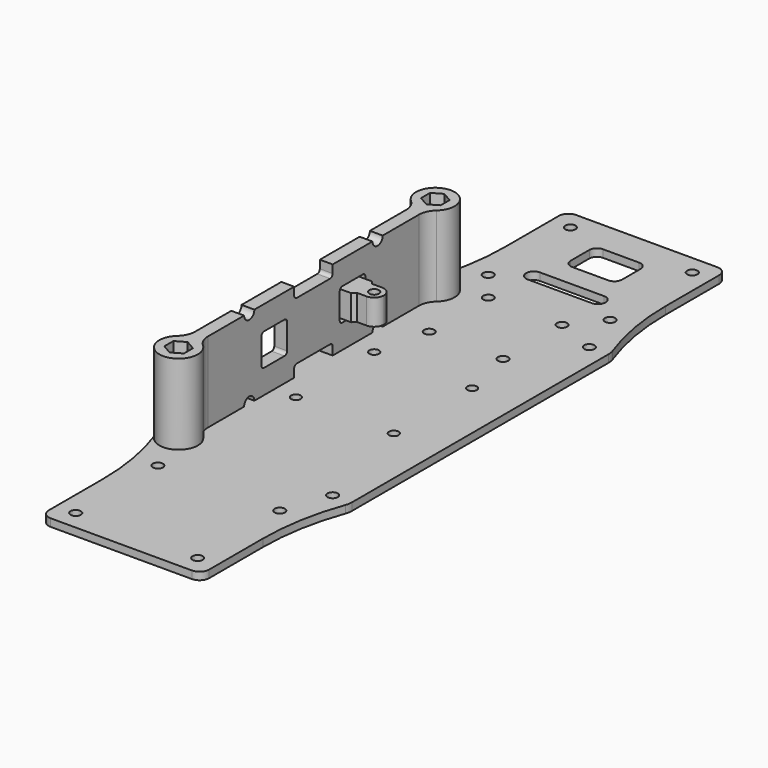
from build123d import *

# Parameters (mm, degrees)
F1_DEPTH  = 2.3622
F2_R      = 1.6002
F2_R_2    = 1.5
F3_DEPTH  = 2.3632
F5_DEPTH  = 25
F7_DEPTH  = 25
F9_DEPTH  = 4
F12_DEPTH = 4
F13_R     = 1.5
F14_DEPTH = 8
F15_R     = 1.5875
F16_DEPTH = 2.3622


with BuildPart() as f1:
    # F0 (on Top) → F1 (new body)
    with BuildSketch(Plane.XY):
        with BuildLine():
            Line((22, 102.348451), (0, 102.348451))
            Line((0, 102.348451), (-22, 102.348451))
            ThreePointArc((-22, 102.348451), (-24.12132, 101.469772), (-25, 99.348451))
            Line((-25, 99.348451), (-25, 78.348451))
            ThreePointArc((-25, 78.348451), (-26.16837, 64.997616), (-29.637959, 52.052662))
            ThreePointArc((-29.637959, 52.052662), (-29.908796, 51.042173), (-30, 50))
            Line((-30, 50), (-30, -50))
            ThreePointArc((-30, -50), (-29.908796, -51.042173), (-29.637959, -52.052662))
            ThreePointArc((-29.637959, -52.052662), (-26.16837, -64.997616), (-25, -78.348451))
            Line((-25, -78.348451), (-25, -99.348451))
            ThreePointArc((-25, -99.348451), (-24.12132, -101.469772), (-22, -102.348451))
            Line((-22, -102.348451), (0, -102.348451))
            Line((0, -102.348451), (22, -102.348451))
            ThreePointArc((22, -102.348451), (24.12132, -101.469772), (25, -99.348451))
            Line((25, -99.348451), (25, -78.348451))
            ThreePointArc((25, -78.348451), (26.16837, -64.997616), (29.637959, -52.052662))
            ThreePointArc((29.637959, -52.052662), (29.908796, -51.042173), (30, -50))
            Line((30, -50), (30, 50))
            ThreePointArc((30, 50), (29.908796, 51.042173), (29.637959, 52.052662))
            ThreePointArc((29.637959, 52.052662), (26.16837, 64.997616), (25, 78.348451))
            Line((25, 78.348451), (25, 99.348451))
            ThreePointArc((25, 99.348451), (24.12132, 101.469772), (22, 102.348451))
        make_face()
    extrude(amount=-F1_DEPTH)

    # F2 (on face) → F3 (cut, through all)
    with BuildSketch(Plane.XY):
        with Locations((-19, 96.348451)):
            Circle(F2_R)
        with Locations((-19, 64.348451)):
            Circle(F2_R)
        with Locations((-19, -96.348451)):
            Circle(F2_R)
        with Locations((-19, -64.348451)):
            Circle(F2_R)
        with Locations((-24, -50)):
            Circle(F2_R)
        with Locations((-24, 50)):
            Circle(F2_R)
        with Locations((19, 96.348451)):
            Circle(F2_R)
        with Locations((19, 64.348451)):
            Circle(F2_R)
        with Locations((24, 50)):
            Circle(F2_R)
        with Locations((24, -50)):
            Circle(F2_R)
        with Locations((19, -64.348451)):
            Circle(F2_R)
        with Locations((19, -96.348451)):
            Circle(F2_R)
        with Locations((-15.25, -15.25)):
            Circle(F2_R_2)
        with Locations((-15.25, 15.25)):
            Circle(F2_R_2)
        with Locations((15.25, 15.25)):
            Circle(F2_R_2)
        with Locations((15.25, -15.25)):
            Circle(F2_R_2)
    extrude(amount=-F3_DEPTH, mode=Mode.SUBTRACT)

    # F15 (on Top) → F16 (cut, through all)
    with BuildSketch(Plane.XY):
        with BuildLine():
            Line((10, 73.228451), (-10, 73.228451))
            ThreePointArc((-10, 73.228451), (-12.38, 70.848451), (-10, 68.468451))
            Line((-10, 68.468451), (10, 68.468451))
            ThreePointArc((10, 68.468451), (12.38, 70.848451), (10, 73.228451))
        make_face()
        with BuildLine():
            Line((5.62, 92.348451), (-5.62, 92.348451))
            ThreePointArc((-5.62, 92.348451), (-7.302914, 91.651365), (-8, 89.968451))
            Line((-8, 89.968451), (-8, 82.728451))
            ThreePointArc((-8, 82.728451), (-7.302914, 81.045537), (-5.62, 80.348451))
            Line((-5.62, 80.348451), (5.62, 80.348451))
            ThreePointArc((5.62, 80.348451), (7.302914, 81.045537), (8, 82.728451))
            Line((8, 82.728451), (8, 89.968451))
            ThreePointArc((8, 89.968451), (7.302914, 91.651365), (5.62, 92.348451))
        make_face()
        with Locations((-11.5, 55)):
            Circle(F15_R)
        with Locations((11.5, 55)):
            Circle(F15_R)
        with Locations((-11.5, 32)):
            Circle(F15_R)
        with Locations((11.5, 32)):
            Circle(F15_R)
    extrude(amount=-F16_DEPTH, mode=Mode.SUBTRACT)


with BuildPart() as f5:
    # F4 (on Top) → F5 (new body)
    with BuildSketch(Plane.XY):
        with BuildLine():
            ThreePointArc((-22, 41.055728), (-21.477226, 43.505218), (-20, 45.527864))
            ThreePointArc((-20, 45.527864), (-24, 56), (-28, 45.527864))
            ThreePointArc((-28, 45.527864), (-26.522774, 43.505218), (-26, 41.055728))
            Line((-26, 41.055728), (-26, -41.055728))
            ThreePointArc((-26, -41.055728), (-26.522774, -43.505218), (-28, -45.527864))
            ThreePointArc((-28, -45.527864), (-24, -56), (-20, -45.527864))
            ThreePointArc((-20, -45.527864), (-21.477226, -43.505218), (-22, -41.055728))
            Line((-22, -41.055728), (-22, 41.055728))
        make_face()
    extrude(amount=F5_DEPTH)

    # F6 (on face) → F7 (cut, through all)
    with BuildSketch(Plane(origin=(0, 0, 0), x_dir=(1, 0, 0), z_dir=(0, 0, -1))):
        Polygon((-24, -46.478163), (-27.05, -48.239082), (-27.05, -51.760918), (-24, -53.521837), (-20.95, -51.760918), (-20.95, -48.239082), align=None)
        Polygon((-24, 53.521837), (-27.05, 51.760918), (-27.05, 48.239082), (-24, 46.478163), (-20.95, 48.239082), (-20.95, 51.760918), align=None)
    extrude(amount=-F7_DEPTH, mode=Mode.SUBTRACT)

    # F8 (on face) → F9 (cut, through all)
    with BuildSketch(Plane(origin=(-26, 0, 0), x_dir=(0, -1, 0), z_dir=(-1, 0, 0))):
        with BuildLine():
            ThreePointArc((-10.25, 16.5), (-10.542893, 17.207107), (-11.25, 17.5))
            Line((-11.25, 17.5), (-19.25, 17.5))
            ThreePointArc((-19.25, 17.5), (-19.957107, 17.207107), (-20.25, 16.5))
            Line((-20.25, 16.5), (-20.25, 8.5))
            ThreePointArc((-20.25, 8.5), (-19.957107, 7.792893), (-19.25, 7.5))
            Line((-19.25, 7.5), (-11.25, 7.5))
            ThreePointArc((-11.25, 7.5), (-10.542893, 7.792893), (-10.25, 8.5))
            Line((-10.25, 8.5), (-10.25, 16.5))
        make_face()
        with BuildLine():
            Line((-7.5, 2.5), (-7.5, 0))
            Line((-7.5, 0), (7.5, 0))
            Line((7.5, 0), (7.5, 2.5))
            ThreePointArc((7.5, 2.5), (7.207107, 3.207107), (6.5, 3.5))
            Line((6.5, 3.5), (-6.5, 3.5))
            ThreePointArc((-6.5, 3.5), (-7.207107, 3.207107), (-7.5, 2.5))
        make_face()
        with BuildLine():
            Line((-23, 25), (-27, 25))
            ThreePointArc((-27, 25), (-25, 23), (-23, 25))
        make_face()
        with BuildLine():
            Line((-27, 0), (-23, 0))
            ThreePointArc((-23, 0), (-25, 2), (-27, 0))
        make_face()
        with BuildLine():
            ThreePointArc((10.25, 8.5), (10.542893, 7.792893), (11.25, 7.5))
            Line((11.25, 7.5), (19.25, 7.5))
            ThreePointArc((19.25, 7.5), (19.957107, 7.792893), (20.25, 8.5))
            Line((20.25, 8.5), (20.25, 16.5))
            ThreePointArc((20.25, 16.5), (19.957107, 17.207107), (19.25, 17.5))
            Line((19.25, 17.5), (11.25, 17.5))
            ThreePointArc((11.25, 17.5), (10.542893, 17.207107), (10.25, 16.5))
            Line((10.25, 16.5), (10.25, 8.5))
        make_face()
        with BuildLine():
            ThreePointArc((23, 25), (25, 23), (27, 25))
            Line((27, 25), (23, 25))
        make_face()
        with BuildLine():
            Line((23, 0), (27, 0))
            ThreePointArc((27, 0), (25, 2), (23, 0))
        make_face()
        with BuildLine():
            ThreePointArc((-7.5, 22.5), (-7.207107, 21.792893), (-6.5, 21.5))
            Line((-6.5, 21.5), (6.5, 21.5))
            ThreePointArc((6.5, 21.5), (7.207107, 21.792893), (7.5, 22.5))
            Line((7.5, 22.5), (7.5, 25))
            Line((7.5, 25), (-7.5, 25))
            Line((-7.5, 25), (-7.5, 22.5))
        make_face()
    extrude(amount=-F9_DEPTH, mode=Mode.SUBTRACT)


with BuildPart() as f12:
    # F11 (on offset) → F12 (new body, symmetric)
    with BuildSketch(Plane.XY.offset(12.5)):
        with BuildLine():
            Line((-26.25, 19.75), (-26.25, 21.25))
            Line((-26.25, 21.25), (-27.75, 21.25))
            Line((-27.75, 21.25), (-27.75, 15.25))
            Line((-27.75, 15.25), (-27.75, 9.25))
            Line((-27.75, 9.25), (-26.25, 9.25))
            Line((-26.25, 9.25), (-26.25, 10.75))
            ThreePointArc((-26.25, 10.75), (-26.103553, 11.103553), (-25.75, 11.25))
            Line((-25.75, 11.25), (-19.25, 11.25))
            Line((-19.25, 11.25), (-18.25, 12.25))
            Line((-18.25, 12.25), (-15.25, 12.25))
            ThreePointArc((-15.25, 12.25), (-13.12868, 13.12868), (-12.25, 15.25))
            ThreePointArc((-12.25, 15.25), (-13.12868, 17.37132), (-15.25, 18.25))
            Line((-15.25, 18.25), (-18.25, 18.25))
            Line((-18.25, 18.25), (-19.25, 19.25))
            Line((-19.25, 19.25), (-25.75, 19.25))
            ThreePointArc((-25.75, 19.25), (-26.103553, 19.396447), (-26.25, 19.75))
        make_face()
    extrude(amount=F12_DEPTH, both=True)

    # F13 (on face) → F14 (cut, through all)
    with BuildSketch(Plane.XY.offset(16.5)):
        with Locations((-15.25, 15.25)):
            Circle(F13_R)
    extrude(amount=-F14_DEPTH, mode=Mode.SUBTRACT)


solid = Compound([f1.part, f5.part, f12.part])
